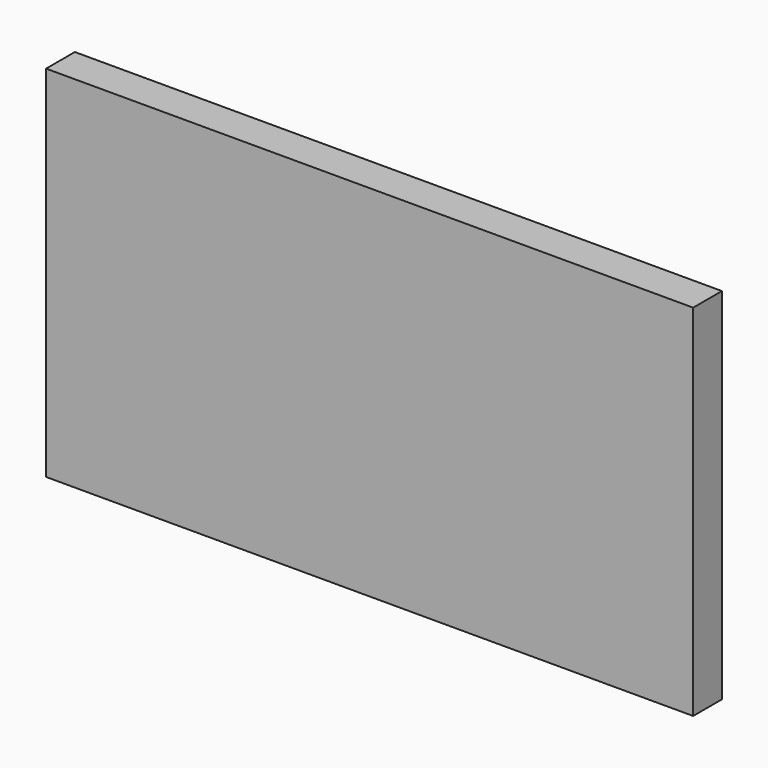
from build123d import *

# Parameters (mm, degrees)
SKETCH_W      = 90
SKETCH_H      = 5
EXTRUDE_DEPTH = 50


with BuildPart() as part:
    # Sketch → Extrude (new body)
    with BuildSketch(Plane.XY):
        Rectangle(SKETCH_W, SKETCH_H)
    extrude(amount=EXTRUDE_DEPTH)


solid = part.part
